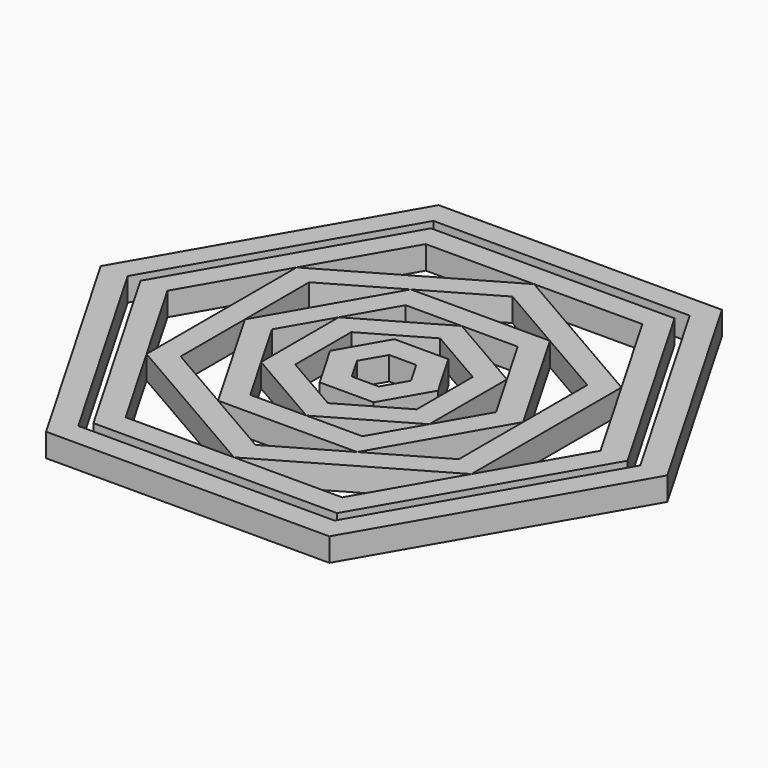
from build123d import *

# Parameters (mm, degrees)
F1_DEPTH = 5


with BuildPart() as f1:
    # F0 (on Top) → F1 (new body)
    with BuildSketch(Plane.XY):
        Polygon((0, 40.1381732757), (-34.7606777183, 20.0690866379), (-34.7606777183, -20.0690866379), (0, -40.1381732757), (34.7606777183, -20.0690866379), (34.7606777183, 20.0690866379), align=None)
        Polygon((-29.7606777183, -17.1823352919), (-29.7606777183, 0), (-29.7606777183, 17.1823352919), (-14.8803388591, 25.7735029379), (0, 34.3646705838), (14.8803388591, 25.7735029379), (29.7606777183, 17.1823352919), (29.7606777183, 0), (29.7606777183, -17.1823352919), (14.8803388591, -25.7735029379), (0, -34.3646705838), (-14.8803388591, -25.7735029379), align=None, mode=Mode.SUBTRACT)
    extrude(amount=F1_DEPTH)


with BuildPart() as f1b:
    # F0 (on Top) → F1, piece 2 (new body)
    with BuildSketch(Plane.XY):
        Polygon((-14.8803387171, 25.7735026919), (-29.7606774343, 0), (-14.8803387171, -25.7735026919), (14.8803387171, -25.7735026919), (29.7606774343, 0), (14.8803387171, 25.7735026919), align=None)
        Polygon((-23.9871747424, 0), (-17.9903810568, 10.3867513459), (-11.9935873712, 20.7735026919), (0, 20.7735026919), (11.9935873712, 20.7735026919), (17.9903810568, 10.3867513459), (23.9871747424, 0), (17.9903810568, -10.3867513459), (11.9935873712, -20.7735026919), (0, -20.7735026919), (-11.9935873712, -20.7735026919), (-17.9903810568, -10.3867513459), align=None, mode=Mode.SUBTRACT)
    extrude(amount=F1_DEPTH)


with BuildPart() as f1c:
    # F0 (on Top) → F1, piece 3 (new body)
    with BuildSketch(Plane.XY):
        Polygon((0, 20.7735026919), (-17.9903810568, 10.3867513459), (-17.9903810568, -10.3867513459), (0, -20.7735026919), (17.9903810568, -10.3867513459), (17.9903810568, 10.3867513459), align=None)
        Polygon((0, 15), (12.9903810568, 7.5), (12.9903810568, -7.5), (0, -15), (-12.9903810568, -7.5), (-12.9903810568, 7.5), align=None, mode=Mode.SUBTRACT)
    extrude(amount=F1_DEPTH)


with BuildPart() as f1d:
    # F0 (on Top) → F1, piece 4 (new body)
    with BuildSketch(Plane.XY):
        Polygon((-5.7735026919, 10), (-11.5470053838, 0), (-5.7735026919, -10), (5.7735026919, -10), (11.5470053838, 0), (5.7735026919, 10), align=None)
        Polygon((-5.7735026919, 0), (-2.8867513459, 5), (2.8867513459, 5), (5.7735026919, 0), (2.8867513459, -5), (-2.8867513459, -5), align=None, mode=Mode.SUBTRACT)
    extrude(amount=F1_DEPTH)


with BuildPart() as f1e:
    # F0 (on Top) → F1, piece 5 (new body)
    with BuildSketch(Plane.XY):
        Polygon((52.1210729829, 0), (26.0605364915, 45.1381732757), (-26.0605364915, 45.1381732757), (-52.1210729829, 0), (-26.0605364915, -45.1381732757), (26.0605364915, -45.1381732757), align=None)
        Polygon((-46.3475702911, 0), (-34.7606777183, 20.0690866379), (-23.1737851455, 40.1381732757), (0, 40.1381732757), (23.1737851455, 40.1381732757), (34.7606777183, 20.0690866379), (46.3475702911, 0), (34.7606777183, -20.0690866379), (23.1737851455, -40.1381732757), (0, -40.1381732757), (-23.1737851455, -40.1381732757), (-34.7606777183, -20.0690866379), align=None, mode=Mode.SUBTRACT)
    extrude(amount=F1_DEPTH)


with BuildPart() as f1f:
    # F0 (on Top) → F1, piece 6 (new body)
    with BuildSketch(Plane.XY):
        Polygon((-30.3108891325, 52.5), (-60.6217782649, 0), (-30.3108891325, -52.5), (30.3108891325, -52.5), (60.6217782649, 0), (30.3108891325, 52.5), align=None)
        Polygon((-54.848275573, 0), (-27.4241377865, 47.5), (27.4241377865, 47.5), (54.848275573, 0), (27.4241377865, -47.5), (-27.4241377865, -47.5), align=None, mode=Mode.SUBTRACT)
    extrude(amount=F1_DEPTH)


solid = Compound([f1.part, f1b.part, f1c.part, f1d.part, f1e.part, f1f.part])
